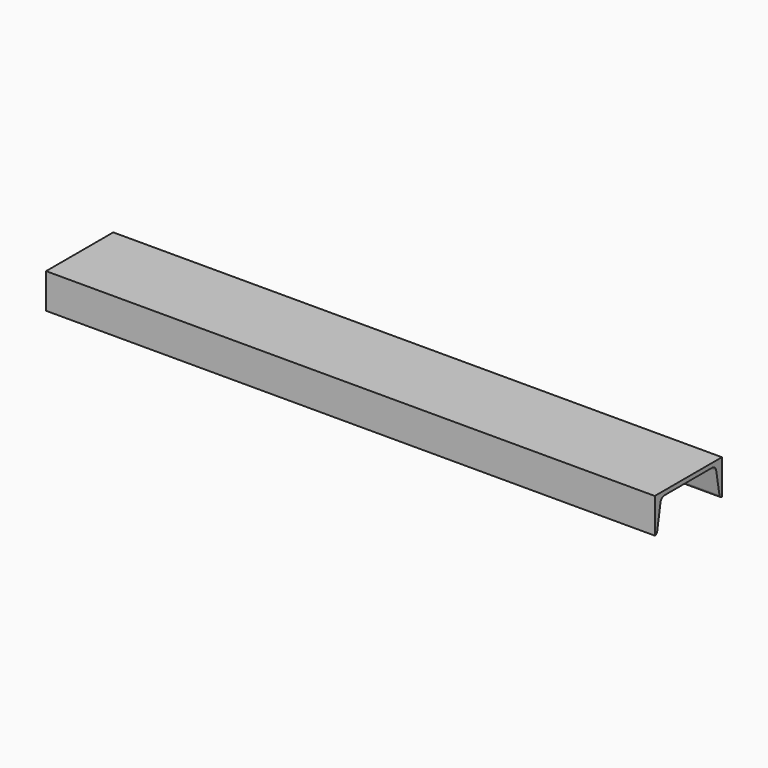
from build123d import *

# Parameters (mm, degrees)
F1_DEPTH = 1104.9


with BuildPart() as f1:
    # F0 (on Right) → F1 (new body)
    with BuildSketch(Plane.YZ):
        with BuildLine():
            Line((76.2, 0), (-76.2, 0))
            Line((-76.2, 0), (-76.2, -63.4238))
            ThreePointArc((-76.2, -63.4238), (-72.574321, -62.102069), (-70.649887, -58.757061))
            Line((-70.649887, -58.757061), (-63.124886, -15.566335))
            ThreePointArc((-63.124886, -15.566335), (-59.952782, -10.052651), (-53.976459, -7.874))
            Line((-53.976459, -7.874), (53.976459, -7.874))
            ThreePointArc((53.976459, -7.874), (59.952782, -10.052651), (63.124886, -15.566335))
            Line((63.124886, -15.566335), (70.649887, -58.757061))
            ThreePointArc((70.649887, -58.757061), (72.574321, -62.102069), (76.2, -63.4238))
            Line((76.2, -63.4238), (76.2, 0))
        make_face()
    extrude(amount=F1_DEPTH)


solid = f1.part
